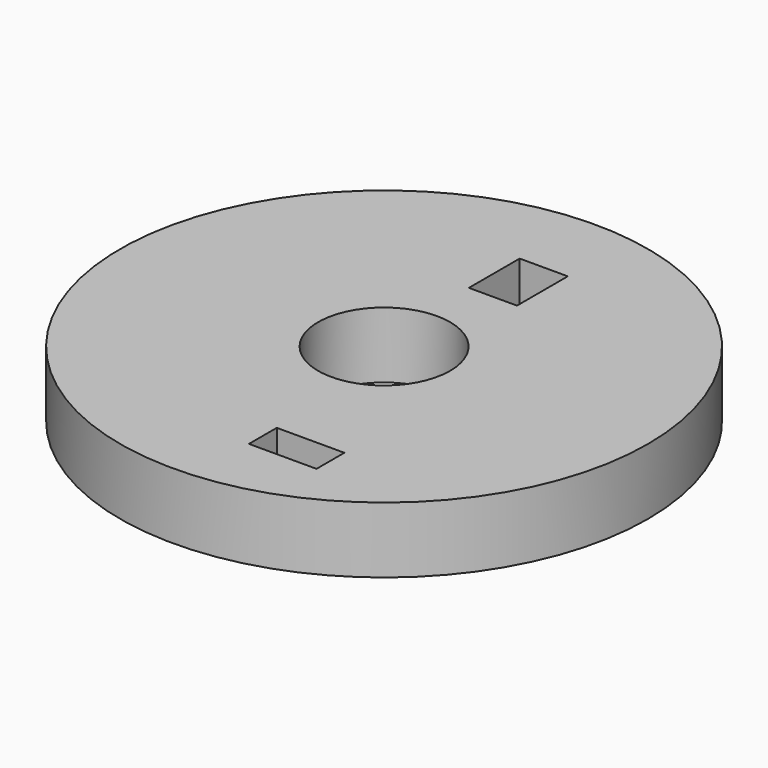
from build123d import *

# Parameters (mm, degrees)
F0_R     = 50.8
F0_R_2   = 12.7
F0_W     = 13.006554
F0_H     = 6.700346
F0_W_2   = 9.262241
F0_H_2   = 12.218274
F1_DEPTH = 6.35


with BuildPart() as f1:
    # F0 (on Top) → F1 (new body, symmetric)
    with BuildSketch(Plane.XY):
        Circle(F0_R)
        Circle(F0_R_2, mode=Mode.SUBTRACT)
        with Locations((10.444656, -34.092932)):
            Rectangle(F0_W, F0_H, mode=Mode.SUBTRACT)
        with Locations((2.66043, 28.969139)):
            Rectangle(F0_W_2, F0_H_2, mode=Mode.SUBTRACT)
    extrude(amount=F1_DEPTH, both=True)


solid = f1.part
